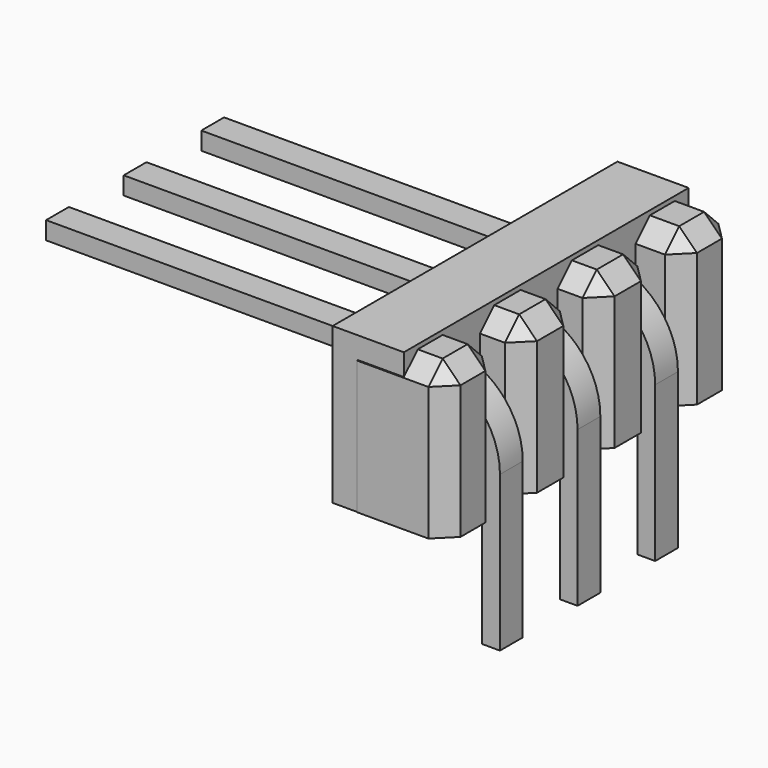
from build123d import *

# Parameters (mm, degrees)
BOX004_W                  = 1.6
BOX004_H                  = 8
BOX004_DEPTH              = 3.5
BOX003_W                  = 1.54
BOX003_H                  = 2
BOX003_DEPTH              = 3.4
CHAMFER002_SIZE           = 0.4
BOX002_W                  = 1.5
BOX002_H                  = 2
BOX002_DEPTH              = 3.4
CHAMFER001_SIZE           = 0.4
BOX_W                     = 1.54
BOX_H                     = 2
BOX_DEPTH                 = 3.4
CHAMFER003_SIZE           = 0.4
BOX001_W                  = 1.5
BOX001_H                  = 2
BOX001_DEPTH              = 3.4
CHAMFER_SIZE              = 0.4
SKETCH001_W               = 0.64
SKETCH001_H               = 0.4
ARRAY_X_COUNT             = 3
ARRAY_X_PITCH             = 2.18
FUSION001_PLACEMENT_ANGLE = -90


with BuildPart() as cubo008:
    # Box004 → Box004 (new body)
    with BuildSketch(Plane(origin=(-9.36, -4.13, 1.7), x_dir=(1, 0, 0), z_dir=(0, 0, 1))):
        with Locations((0.8, 4)):
            Rectangle(BOX004_W, BOX004_H)
    extrude(amount=BOX004_DEPTH)


with BuildPart() as chamfer002:
    # Box003 → Box003 (new body)
    with BuildSketch(Plane(origin=(-2.93, -3.3, 0.2), x_dir=(1, 0, 0), z_dir=(0, 0, 1))):
        with Locations((0.77, 1)):
            Rectangle(BOX003_W, BOX003_H)
    extrude(amount=BOX003_DEPTH)

    # Chamfer002
    chamfer002_edges = [chamfer002.edges().sort_by_distance(p)[0] for p in [
        (-2.93, -2.3, 3.6),
        (-2.93, -1.3, 1.9),
        (-1.39, -2.3, 3.6),
        (-1.39, -1.3, 1.9),
        (-2.16, -1.3, 3.6),
    ]]
    chamfer(chamfer002_edges, length=CHAMFER002_SIZE)


with BuildPart() as chamfer002_1:
    # Chamfer002 placement: moved
    add(chamfer002.part.moved(Location((3.2, 1.5, 1.5))))


with BuildPart() as chamfer001:
    # Box002 → Box002 (new body)
    with BuildSketch(Plane(origin=(-1.14, -16.5, 1.4), x_dir=(1, 0, 0), z_dir=(0, 0, 1))):
        with Locations((0.75, 1)):
            Rectangle(BOX002_W, BOX002_H)
    extrude(amount=BOX002_DEPTH)

    # Chamfer001
    chamfer001_edges = [chamfer001.edges().sort_by_distance(p)[0] for p in [
        (-1.14, -15.5, 4.8),
        (-1.14, -14.5, 3.1),
        (0.36, -15.5, 4.8),
        (0.36, -14.5, 3.1),
        (-0.39, -14.5, 4.8),
    ]]
    chamfer(chamfer001_edges, length=CHAMFER001_SIZE)


with BuildPart() as chamfer001_1:
    # Chamfer001 placement: moved
    add(chamfer001.part.moved(Location((5.78, 14.7, 0.3))))


with BuildPart() as chamfer003:
    # Box → Box (new body)
    with BuildSketch(Plane(origin=(-2.93, -3.3, 0.2), x_dir=(1, 0, 0), z_dir=(0, 0, 1))):
        with Locations((0.77, 1)):
            Rectangle(BOX_W, BOX_H)
    extrude(amount=BOX_DEPTH)

    # Chamfer003
    chamfer003_edges = [chamfer003.edges().sort_by_distance(p)[0] for p in [
        (-2.93, -2.3, 3.6),
        (-2.93, -1.3, 1.9),
        (-1.39, -2.3, 3.6),
        (-1.39, -1.3, 1.9),
        (-2.16, -1.3, 3.6),
    ]]
    chamfer(chamfer003_edges, length=CHAMFER003_SIZE)


with BuildPart() as chamfer003_1:
    # Chamfer003 placement: moved
    add(chamfer003.part.moved(Location((5.38, 1.5, 1.5))))


with BuildPart() as chamfer_body:
    # Box001 → Box001 (new body)
    with BuildSketch(Plane(origin=(-1.14, -16.5, 1.4), x_dir=(1, 0, 0), z_dir=(0, 0, 1))):
        with Locations((0.75, 1)):
            Rectangle(BOX001_W, BOX001_H)
    extrude(amount=BOX001_DEPTH)

    # Chamfer
    chamfer_edges = [chamfer_body.edges().sort_by_distance(p)[0] for p in [
        (-1.14, -15.5, 4.8),
        (-1.14, -14.5, 3.1),
        (0.36, -15.5, 4.8),
        (0.36, -14.5, 3.1),
        (-0.39, -14.5, 4.8),
    ]]
    chamfer(chamfer_edges, length=CHAMFER_SIZE)


with BuildPart() as chamfer_body_1:
    # Chamfer placement: moved
    add(chamfer_body.part.moved(Location((-0.74, 14.8, 0.3))))


with BuildPart() as obj1:
    # Sweep: sweep along a path in Sketch
    with BuildLine(Plane.YZ) as sweep_path:
        Line((0, 0), (0, 3.48702))
        ThreePointArc((0, 3.48702), (-0.443142, 4.556858), (-1.51298, 5))
        Line((-1.51298, 5), (-10, 5))
    # Sketch001 → Sweep (sweep)
    with BuildSketch(Plane.XY):
        Rectangle(SKETCH001_W, SKETCH001_H)
    sweep(path=sweep_path.line)


with BuildPart() as obj1_1:
    # Sweep placement: moved
    add(obj1.part.moved(Location((-0.05, 0, -1))))

    # Array X: obj1_3


with BuildPart() as obj1_2:
    add(obj1_1.part)
    with Locations(*[(i * ARRAY_X_PITCH, 0, 0) for i in range(1, ARRAY_X_COUNT)]):
        add(obj1_1.part)

    # Fusion001: union Chamfer002, Chamfer001, Chamfer003, Chamfer body
    add(chamfer002_1.part)
    add(chamfer001_1.part)
    add(chamfer003_1.part)
    add(chamfer_body_1.part)


with BuildPart() as obj1_3:
    # Fusion001 placement: moved
    add(obj1_2.part.moved(Location((-7, 2, 0))).rotate(Axis((-7, 2, 0), (0, 0, 1)), FUSION001_PLACEMENT_ANGLE))

    # Fusion: union Cubo008
    add(cubo008.part)


with BuildPart() as obj1_4:
    # Fusion placement: moved
    add(obj1_3.part.moved(Location((0, 2, 0))))


solid = obj1_4.part
